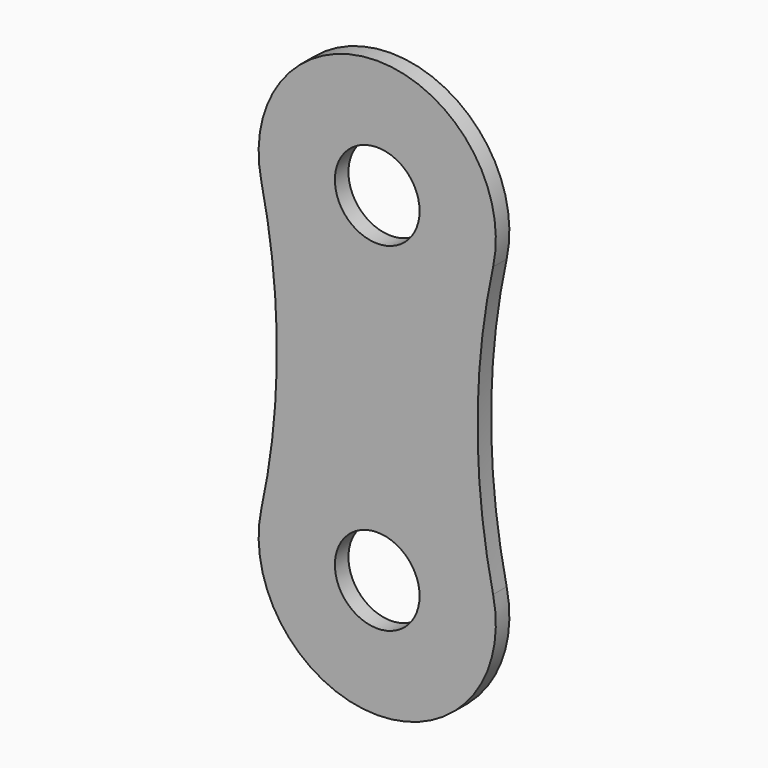
from build123d import *

# Parameters (mm, degrees)
F0_R     = 2.5
F1_DEPTH = 1
F2_R     = 2.5
F3_DEPTH = 1


with BuildPart() as f1:
    # F0 (on Front) → F1 (new body)
    with BuildSketch(Plane.XZ):
        with BuildLine():
            ThreePointArc((-6.8397, 18.511913), (-5.9237, 10.000689), (-6.8397, 1.489464))
            ThreePointArc((-6.8397, 1.489464), (0, -7), (6.8397, 1.489464))
            ThreePointArc((6.8397, 1.489464), (5.9237, 10.000689), (6.8397, 18.511913))
            ThreePointArc((6.8397, 18.511913), (0, 27.001378), (-6.8397, 18.511913))
        make_face()
        with Locations((0, 20.001378)):
            Circle(F0_R, mode=Mode.SUBTRACT)
    extrude(amount=F1_DEPTH)

    # F2 (on face) → F3 (cut)
    with BuildSketch(Plane.XZ.offset(1)):
        Circle(F2_R)
    extrude(amount=-F3_DEPTH, mode=Mode.SUBTRACT)


solid = f1.part
